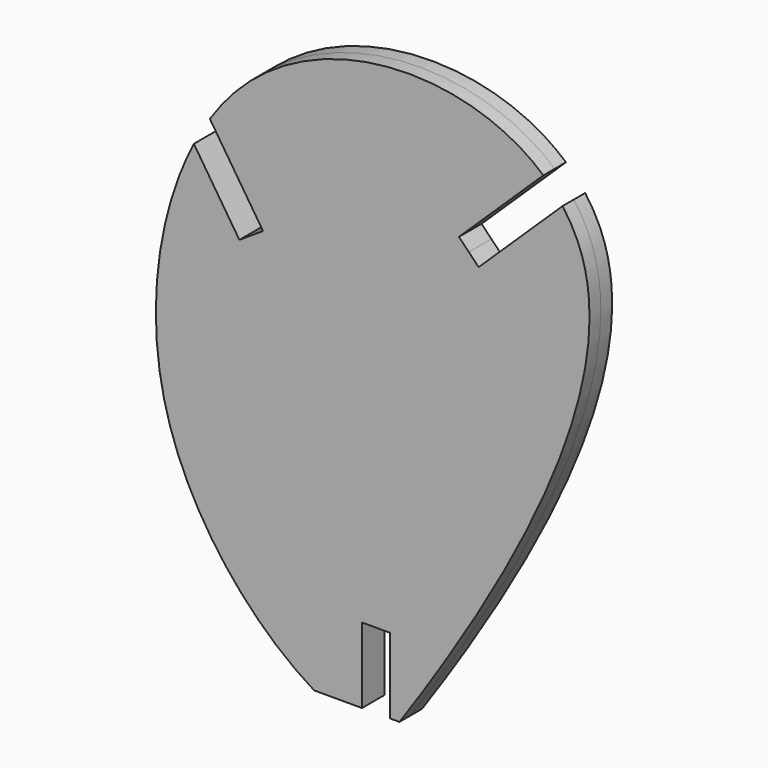
from build123d import *

# Parameters (mm, degrees)
F2_DEPTH = 1.5
F3_W     = 3
F3_H     = 16
F4_DEPTH = 25


with BuildPart() as f2:
    # F1 (on Front) → F2 (new body, symmetric)
    with BuildSketch(Plane.XZ):
        with BuildLine():
            add(Edge.make_bspline(
                [(-6.5811700188, 0), (-13.0977069694, 3.9364622169), (-27.8054503735, 20.8943752102), (-19.4177727212, 56.5137920169), (6.8547689493, 63.7937351975), (29.7863310593, 50.168239492), (17.9522950202, 22.4377531558), (2.4807401933, 0)],
                knots=[0, 0, 0, 0, 0.1910098898, 0.3977067511, 0.5751034644, 0.7310175316, 1, 1, 1, 1], degree=3))
            Line((-6.5811700188, 0), (2.4807401933, 0))
        make_face()
    extrude(amount=F2_DEPTH, both=True)

    # F3 (on face) → F4 (cut)
    with BuildSketch(Plane.XZ.offset(1.5)):
        Polygon((-23.7911120408, 56.4793949344), (-25.0472132816, 55.6595109956), (-14.5127240636, 39.5201718132), (-13.2566228228, 40.340055752), (-12.0005215821, 41.1599396907), (-22.5350108001, 57.2992788731), align=None)
        Polygon((9.8393275162, 46.3023560938), (10.8818753603, 45.2238877389), (28.8563479428, 62.5996851417), (27.8138000986, 63.6781534966), (26.7712522544, 64.7566218516), (8.796779672, 47.3808244488), align=None)
        Rectangle(F3_W, F3_H)
    extrude(amount=-F4_DEPTH, mode=Mode.SUBTRACT)


solid = f2.part
